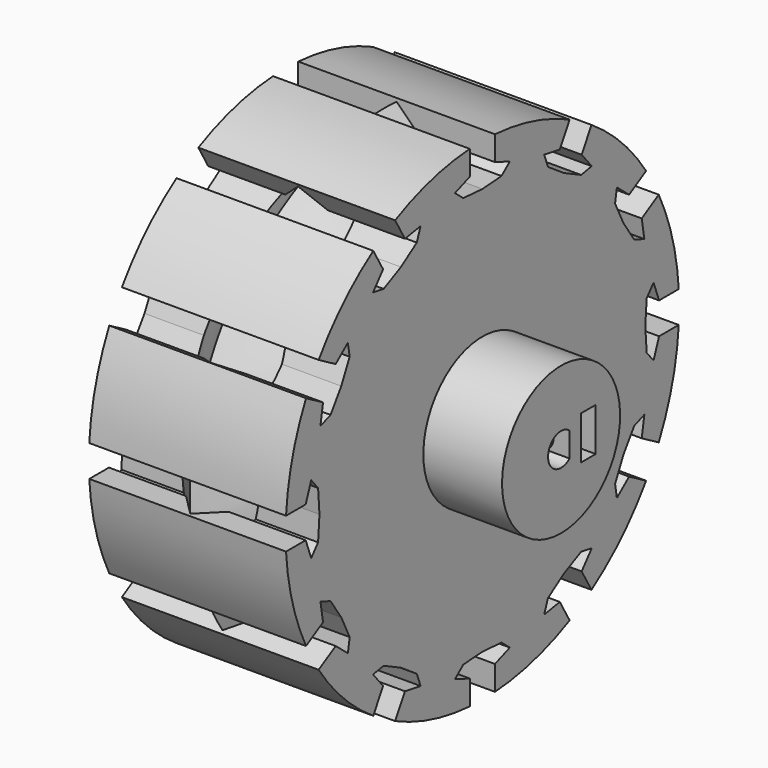
from build123d import *

# Parameters (mm, degrees)
SKETCH079_R            = 31.75
PAD035_DEPTH           = 25.4
POCKET036_DEPTH        = 212.0521184001
POLARPATTERN_COUNT     = 12
SKETCH081_R            = 9.525
PAD036_DEPTH           = 10.16
SKETCH082_R            = 1.7399
POCKET001_DEPTH        = 11.43
SKETCH083_W            = 5.588
SKETCH083_H            = 2.413
POCKET002_DEPTH        = 8.89
SKETCH008_R            = 4.706723
PAD037_DEPTH           = 5.08
FUSION_PLACEMENT_ANGLE = 90


with BuildPart() as retaining_feature:
    # Sketch084 → Revolution (revolve)
    with BuildSketch(Plane.XZ):
        Polygon((18.6284066082, 0), (31.3284066082, 12.7), (18.6284066082, 25.4), align=None)
    revolve(axis=Axis((0, 0, 0), (0, 0, 1)))


with BuildPart() as wheel:
    # Sketch079 → Pad035 (new body)
    with BuildSketch(Plane.XY):
        Circle(SKETCH079_R)
        with BuildLine():
            ThreePointArc((-1.5875, 1.367831861), (0, -2.0955), (1.5875, 1.367831861))
            Line((-1.5875, 1.367831861), (1.5875, 1.367831861))
        make_face(mode=Mode.SUBTRACT)
    extrude(amount=PAD035_DEPTH)

    # Sketch080 (on Face5 of Pad035) → Pocket036 (cut, through all)
    with BuildSketch(Plane.XY.offset(25.4)):
        Polygon((2.035944, 32.858185), (2.035944, 28.5126623158), (4.42721, 27.621075), (3.088547, 26.5102209998), (0, 26.2899060001), (-3.088547, 26.5102209998), (-4.42721, 27.621075), (-2.035944, 28.5126623158), (-2.035944, 32.858185), align=None)
    pocket036 = extrude(amount=-POCKET036_DEPTH, mode=Mode.SUBTRACT)

    # PolarPattern: Pocket036 ×12 about axis
    polarpattern_axis = Axis((0, 0, 25.4), (0, 0, 1))
    for i in range(1, POLARPATTERN_COUNT):
        add(pocket036.rotate(polarpattern_axis, i * 360 / POLARPATTERN_COUNT), mode=Mode.SUBTRACT)

    # Sketch081 (on Face4 of PolarPattern) → Pad036 (join)
    with BuildSketch(Plane.XY.offset(25.4)):
        Circle(SKETCH081_R)
        with BuildLine():
            Line((-1.5875, 1.367831861), (1.5875, 1.367831861))
            ThreePointArc((-1.5875, 1.367831861), (0, -2.0955), (1.5875, 1.367831861))
        make_face(mode=Mode.SUBTRACT)
    extrude(amount=PAD036_DEPTH)

    # Sketch082 (on DatumPlane) → Pocket001 (cut)
    with BuildSketch(Plane.XZ.offset(-1.367831861)):
        with Locations((0, 31.75)):
            Circle(SKETCH082_R)
    extrude(amount=-POCKET001_DEPTH, mode=Mode.SUBTRACT)

    # Sketch083 (on Face116 of Pocket001) → Pocket002 (cut)
    with BuildSketch(Plane.XY.offset(35.56)):
        with Locations((0, 4.3815)):
            Rectangle(SKETCH083_W, SKETCH083_H)
    extrude(amount=-POCKET002_DEPTH, mode=Mode.SUBTRACT)

    # Sketch008 (on Face2 of Pocket002) → Pad037 (join)
    with BuildSketch(Plane(origin=(0, 0, 0), x_dir=(1, 0, 0), z_dir=(0, 0, -1))):
        Circle(SKETCH008_R)
    extrude(amount=-PAD037_DEPTH)

    # Fusion: union retaining-feature
    add(retaining_feature.part)


with BuildPart() as wheel_1:
    # Fusion placement: moved
    add(wheel.part.moved(Location((-108.204, -34.036, 13.208))).rotate(Axis((-108.204, -34.036, 13.208), (0, 1, 0)), FUSION_PLACEMENT_ANGLE))


solid = wheel_1.part
